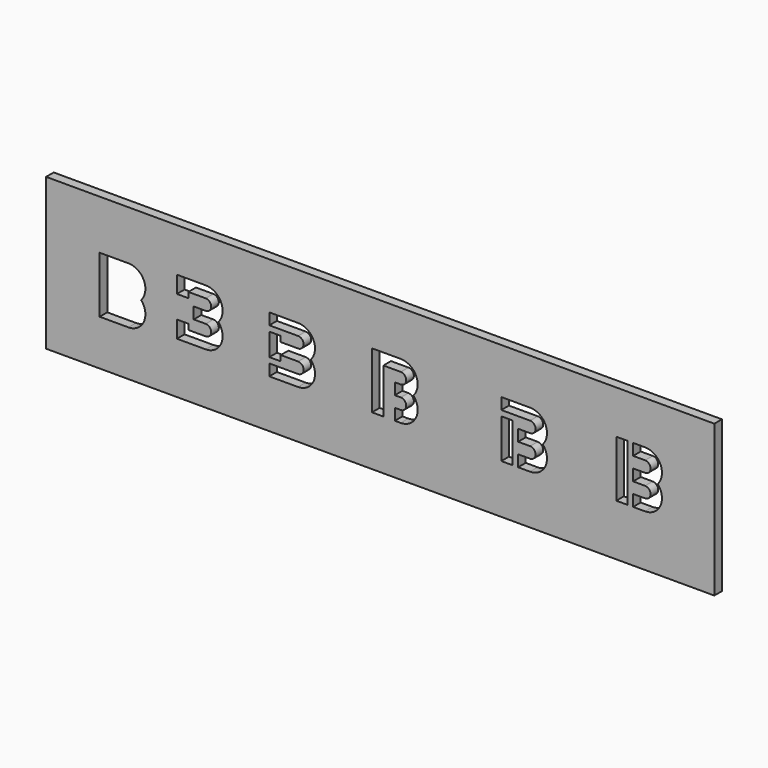
from build123d import *

# Parameters (mm, degrees)
F0_W     = 222.764201
F0_H     = 50.447313
F0_W_2   = 3.81
F0_H_2   = 13.1445
F0_H_3   = 18.796
F1_DEPTH = 3.175


with BuildPart() as f1:
    # F0 (on Front) → F1 (new body)
    with BuildSketch(Plane.XZ):
        with Locations((20.982425, 14.055919)):
            Rectangle(F0_W, F0_H)
        with BuildLine():
            Line((-62.95, 4.029787), (-72.5385, 4.029787))
            Line((-72.5385, 4.029787), (-72.5385, 22.825787))
            Line((-72.5385, 22.825787), (-62.95, 22.825787))
            ThreePointArc((-62.95, 22.825787), (-57.79671, 19.494427), (-58.718784, 13.427787))
            ThreePointArc((-58.718784, 13.427787), (-57.79671, 7.361146), (-62.95, 4.029787))
        make_face(mode=Mode.SUBTRACT)
        with Locations((63.254545, 11.788765)):
            Rectangle(F0_W_2, F0_H_2, mode=Mode.SUBTRACT)
        with BuildLine():
            Line((-37.197788, 5.948498), (-46.786288, 5.948498))
            Line((-46.786288, 5.948498), (-46.786288, 11.599998))
            Line((-46.786288, 11.599998), (-42.976288, 11.599998))
            Line((-42.976288, 11.599998), (-42.976288, 9.758498))
            Line((-42.976288, 9.758498), (-37.197788, 9.758498))
            ThreePointArc((-37.197788, 9.758498), (-35.356288, 11.599998), (-37.197788, 13.441498))
            Line((-37.197788, 13.441498), (-41.172888, 13.441498))
            Line((-41.172888, 13.441498), (-41.172888, 17.251498))
            Line((-41.172888, 17.251498), (-37.197788, 17.251498))
            ThreePointArc((-37.197788, 17.251498), (-35.356288, 19.092998), (-37.197788, 20.934498))
            Line((-37.197788, 20.934498), (-42.976288, 20.934498))
            Line((-42.976288, 20.934498), (-42.976288, 19.092998))
            Line((-42.976288, 19.092998), (-46.786288, 19.092998))
            Line((-46.786288, 19.092998), (-46.786288, 24.744498))
            Line((-46.786288, 24.744498), (-37.197788, 24.744498))
            ThreePointArc((-37.197788, 24.744498), (-32.044498, 21.413139), (-32.966572, 15.346498))
            ThreePointArc((-32.966572, 15.346498), (-32.044498, 9.279857), (-37.197788, 5.948498))
        make_face(mode=Mode.SUBTRACT)
        with BuildLine():
            Line((-6.398563, 4.917182), (-15.987063, 4.917182))
            Line((-15.987063, 4.917182), (-15.987063, 8.727182))
            Line((-15.987063, 8.727182), (-6.398563, 8.727182))
            ThreePointArc((-6.398563, 8.727182), (-4.557063, 10.568682), (-6.398563, 12.410182))
            Line((-6.398563, 12.410182), (-12.177063, 12.410182))
            Line((-12.177063, 12.410182), (-12.177063, 10.568682))
            Line((-12.177063, 10.568682), (-15.987063, 10.568682))
            Line((-15.987063, 10.568682), (-15.987063, 18.061682))
            Line((-15.987063, 18.061682), (-12.177063, 18.061682))
            Line((-12.177063, 18.061682), (-12.177063, 16.220182))
            Line((-12.177063, 16.220182), (-6.398563, 16.220182))
            ThreePointArc((-6.398563, 16.220182), (-4.557063, 18.061682), (-6.398563, 19.903182))
            Line((-6.398563, 19.903182), (-15.987063, 19.903182))
            Line((-15.987063, 19.903182), (-15.987063, 23.713182))
            Line((-15.987063, 23.713182), (-6.398563, 23.713182))
            ThreePointArc((-6.398563, 23.713182), (-1.245273, 20.381823), (-2.167347, 14.315182))
            ThreePointArc((-2.167347, 14.315182), (-1.245273, 8.248541), (-6.398563, 4.917182))
        make_face(mode=Mode.SUBTRACT)
        with BuildLine():
            Line((22.045695, 5.497487), (18.235695, 5.497487))
            Line((18.235695, 5.497487), (18.235695, 24.293487))
            Line((18.235695, 24.293487), (27.824195, 24.293487))
            ThreePointArc((27.824195, 24.293487), (32.977485, 20.962128), (32.055411, 14.895487))
            ThreePointArc((32.055411, 14.895487), (32.977485, 8.828846), (27.824195, 5.497487))
            Line((27.824195, 5.497487), (25.855695, 5.497487))
            Line((25.855695, 5.497487), (25.855695, 9.307487))
            Line((25.855695, 9.307487), (27.824195, 9.307487))
            ThreePointArc((27.824195, 9.307487), (29.665695, 11.148987), (27.824195, 12.990487))
            Line((27.824195, 12.990487), (25.855695, 12.990487))
            Line((25.855695, 12.990487), (25.855695, 16.800487))
            Line((25.855695, 16.800487), (27.824195, 16.800487))
            ThreePointArc((27.824195, 16.800487), (29.665695, 18.641987), (27.824195, 20.483487))
            Line((27.824195, 20.483487), (22.045695, 20.483487))
            Line((22.045695, 20.483487), (22.045695, 5.497487))
        make_face(mode=Mode.SUBTRACT)
        with BuildLine():
            Line((61.349545, 20.202515), (61.349545, 24.012515))
            Line((61.349545, 24.012515), (70.938045, 24.012515))
            ThreePointArc((70.938045, 24.012515), (76.091335, 20.681156), (75.169261, 14.614515))
            ThreePointArc((75.169261, 14.614515), (76.091335, 8.547874), (70.938045, 5.216515))
            Line((70.938045, 5.216515), (66.962945, 5.216515))
            Line((66.962945, 5.216515), (66.962945, 9.026515))
            Line((66.962945, 9.026515), (70.938045, 9.026515))
            ThreePointArc((70.938045, 9.026515), (72.779545, 10.868015), (70.938045, 12.709515))
            Line((70.938045, 12.709515), (66.962945, 12.709515))
            Line((66.962945, 12.709515), (66.962945, 16.519515))
            Line((66.962945, 16.519515), (70.938045, 16.519515))
            ThreePointArc((70.938045, 16.519515), (72.779545, 18.361015), (70.938045, 20.202515))
            Line((70.938045, 20.202515), (61.349545, 20.202515))
        make_face(mode=Mode.SUBTRACT)
        with Locations((101.585424, 15.441135)):
            Rectangle(F0_W_2, F0_H_3, mode=Mode.SUBTRACT)
        with BuildLine():
            ThreePointArc((113.50014, 15.441135), (114.422214, 9.374494), (109.268924, 6.043135))
            Line((109.268924, 6.043135), (105.293824, 6.043135))
            Line((105.293824, 6.043135), (105.293824, 9.853135))
            Line((105.293824, 9.853135), (109.268924, 9.853135))
            ThreePointArc((109.268924, 9.853135), (111.110424, 11.694635), (109.268924, 13.536135))
            Line((109.268924, 13.536135), (105.293824, 13.536135))
            Line((105.293824, 13.536135), (105.293824, 17.346135))
            Line((105.293824, 17.346135), (109.268924, 17.346135))
            ThreePointArc((109.268924, 17.346135), (111.110424, 19.187635), (109.268924, 21.029135))
            Line((109.268924, 21.029135), (105.293824, 21.029135))
            Line((105.293824, 21.029135), (105.293824, 24.839135))
            Line((105.293824, 24.839135), (109.268924, 24.839135))
            ThreePointArc((109.268924, 24.839135), (114.422214, 21.507776), (113.50014, 15.441135))
        make_face(mode=Mode.SUBTRACT)
    extrude(amount=F1_DEPTH)


solid = f1.part
